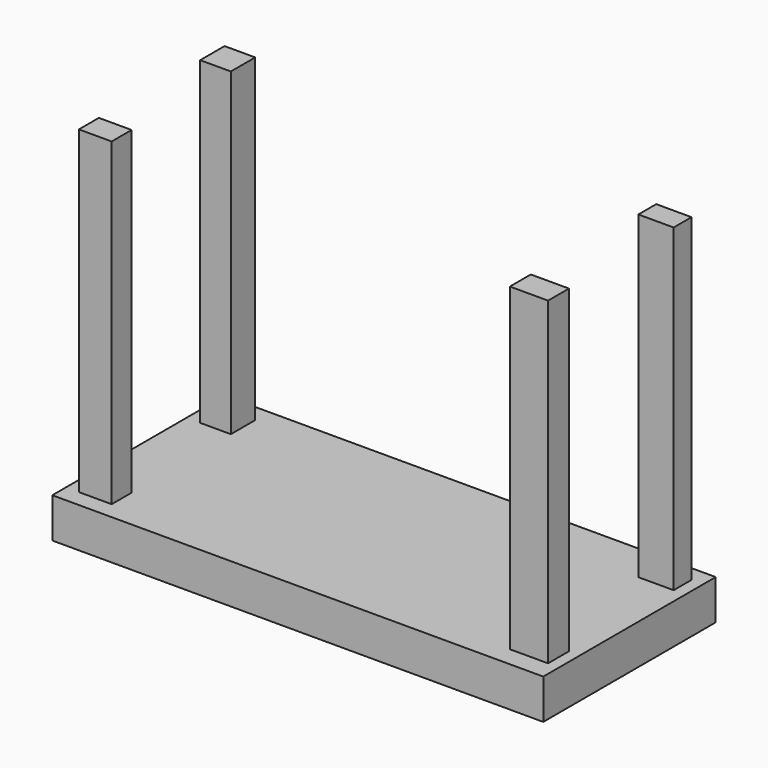
from build123d import *

# Parameters (mm, degrees)
F0_W     = 1230
F0_H     = 540
F1_DEPTH = 100
F2_W     = 76.747716
F2_H     = 76.336131
F2_W_2   = 82.069576
F2_H_2   = 62.463656
F2_W_3   = 88.308066
F2_H_3   = 56.011617
F2_W_4   = 95.598757
F2_H_4   = 65.452427
F3_DEPTH = 800


with BuildPart() as f1:
    # F0 (on Top) → F1 (new body)
    with BuildSketch(Plane.XY):
        Rectangle(F0_W, F0_H)
    extrude(amount=F1_DEPTH)

    # F2 (on face) → F3 (join)
    with BuildSketch(Plane.XY.offset(100)):
        with Locations((-542.164415, 188.232846)):
            Rectangle(F2_W, F2_H)
        with Locations((-541.533679, -195.963465)):
            Rectangle(F2_W_2, F2_H_2)
        with Locations((541.383877, 203.047305)):
            Rectangle(F2_W_3, F2_H_3)
        with Locations((539.47857, -187.6401)):
            Rectangle(F2_W_4, F2_H_4)
    extrude(amount=F3_DEPTH)


solid = f1.part
